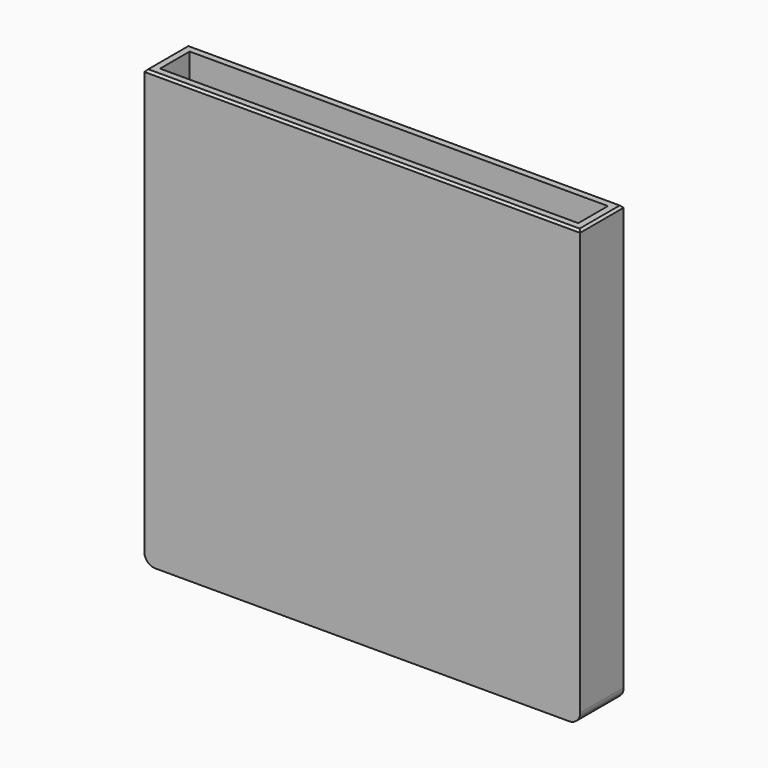
from build123d import *

# Parameters (mm, degrees)
F0_W     = 254
F0_H     = 254
F1_DEPTH = 31.75
F2_T     = -5.08
F3_SIZE  = 1.27
F4_R     = 6.35


with BuildPart() as f1:
    # F0 (on Front) → F1 (new body)
    with BuildSketch(Plane.XZ):
        with Locations((2.089877, 11.789044)):
            Rectangle(F0_W, F0_H)
    extrude(amount=F1_DEPTH)

    # F2
    f2_openings = [f1.faces().sort_by_distance(p)[0] for p in [
        (2.089877, -15.875, 138.789044),
    ]]
    offset(amount=F2_T, openings=f2_openings)

    # F3
    f3_edges = [f1.edges().sort_by_distance(p)[0] for p in [
        (2.089877, -31.75, 138.789044),
        (-124.910123, -15.875, 138.789044),
        (2.089877, 0, 138.789044),
        (129.089877, -15.875, 138.789044),
    ]]
    chamfer(f3_edges, length=F3_SIZE)

    # F4
    f4_edges = [f1.edges().sort_by_distance(p)[0] for p in [
        (129.089877, -15.875, -115.210956),
        (-124.910123, -15.875, -115.210956),
    ]]
    fillet(f4_edges, radius=F4_R)


solid = f1.part
